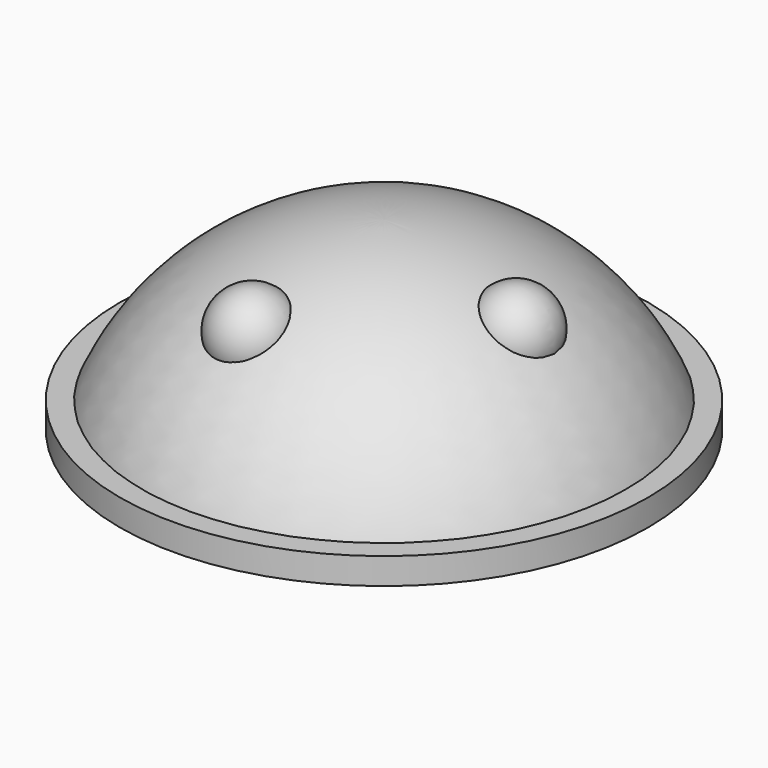
from build123d import *

# Parameters (mm, degrees)
CYLINDER_R     = 10
CYLINDER_DEPTH = 1


with BuildPart() as base:
    # Cylinder → Cylinder (new body)
    with BuildSketch(Plane.XY):
        Circle(CYLINDER_R)
    extrude(amount=CYLINDER_DEPTH)


with BuildPart() as cap:
    # Sphere → Sphere (revolve)
    with BuildSketch(Plane(origin=(0, 0, -3), x_dir=(1, 0, 0), z_dir=(0, -1, 0))):
        with BuildLine():
            ThreePointArc((9.396926, 3.420201), (5.735764, 8.19152), (0, 10))
            Line((0, 10), (0, 3.420201))
            Line((0, 3.420201), (9.396926, 3.420201))
        make_face()
    revolve(axis=Axis((0, 0, -3), (0, 0, 1)))


with BuildPart() as ull1:
    # Sphere001 → Sphere001 (revolve)
    with BuildSketch(Plane(origin=(5, 0, 5), x_dir=(1, 0, 0), z_dir=(0, -1, 0))):
        with BuildLine():
            ThreePointArc((0, -1.5), (1.5, 0), (0, 1.5))
            Line((0, 1.5), (0, -1.5))
        make_face()
    revolve(axis=Axis((5, 0, 5), (0, 0, 1)))


with BuildPart() as ull2:
    # Sphere002 → Sphere002 (revolve)
    with BuildSketch(Plane(origin=(-1, -5, 5), x_dir=(1, 0, 0), z_dir=(0, -1, 0))):
        with BuildLine():
            ThreePointArc((0, -1.5), (1.5, 0), (0, 1.5))
            Line((0, 1.5), (0, -1.5))
        make_face()
    revolve(axis=Axis((-1, -5, 5), (0, 0, 1)))


solid = Compound([base.part, cap.part, ull1.part, ull2.part])
